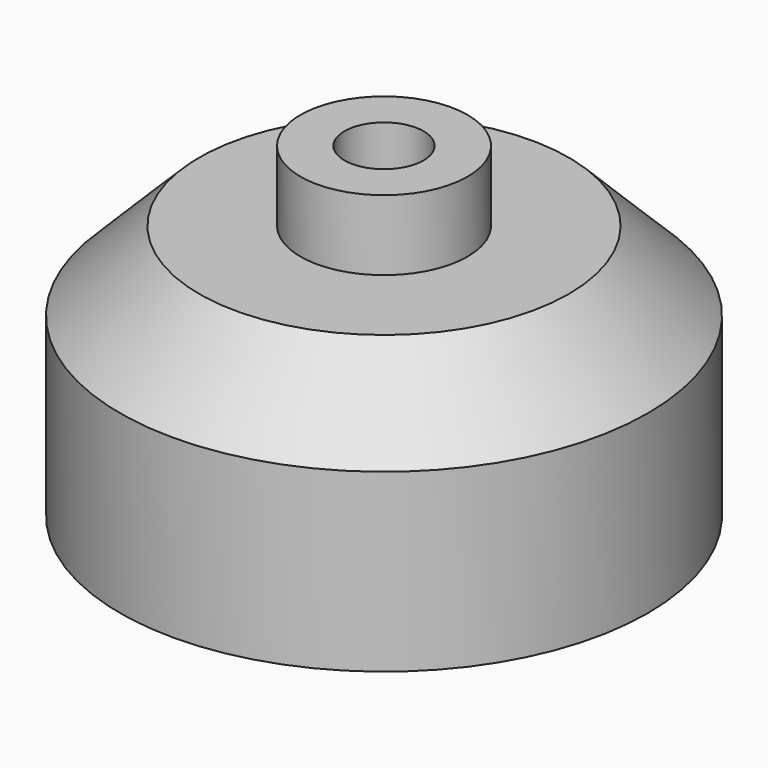
from build123d import *

# Parameters (mm, degrees)
F0_R      = 15
F1_DEPTH  = 10
F2_R      = 15
F3_DEPTH  = 4.5
F4_SIZE2  = 4.5
F4_SIZE   = 4.5
F5_R      = 2.2485105192
F6_DEPTH  = 4.5
F7_R      = 3.5
F8_DEPTH  = 10
F9_R      = 4.75
F9_R_2    = 2.2485105192
F10_DEPTH = 4


with BuildPart() as f1:
    # F0 (on Top) → F1 (new body)
    with BuildSketch(Plane.XY):
        Circle(F0_R)
    extrude(amount=F1_DEPTH)

    # F2 (on face) → F3 (join)
    with BuildSketch(Plane.XY.offset(10)):
        Circle(F2_R)
    extrude(amount=F3_DEPTH)

    # F4
    f4_edges = [f1.edges().sort_by_distance(p)[0] for p in [
        (-15, 0, 14.5),
    ]]
    chamfer(f4_edges, length=F4_SIZE, length2=F4_SIZE2)

    # F5 (on face) → F6 (cut)
    with BuildSketch(Plane.XY.offset(14.5)):
        Circle(F5_R)
    extrude(amount=-F6_DEPTH, mode=Mode.SUBTRACT)

    # F7 (on face) → F8 (cut)
    with BuildSketch(Plane.XY):
        Circle(F7_R)
    extrude(amount=F8_DEPTH, mode=Mode.SUBTRACT)

    # F9 (on face) → F10 (join)
    with BuildSketch(Plane.XY.offset(14.5)):
        Circle(F9_R)
        Circle(F9_R_2, mode=Mode.SUBTRACT)
    extrude(amount=F10_DEPTH)


solid = f1.part
